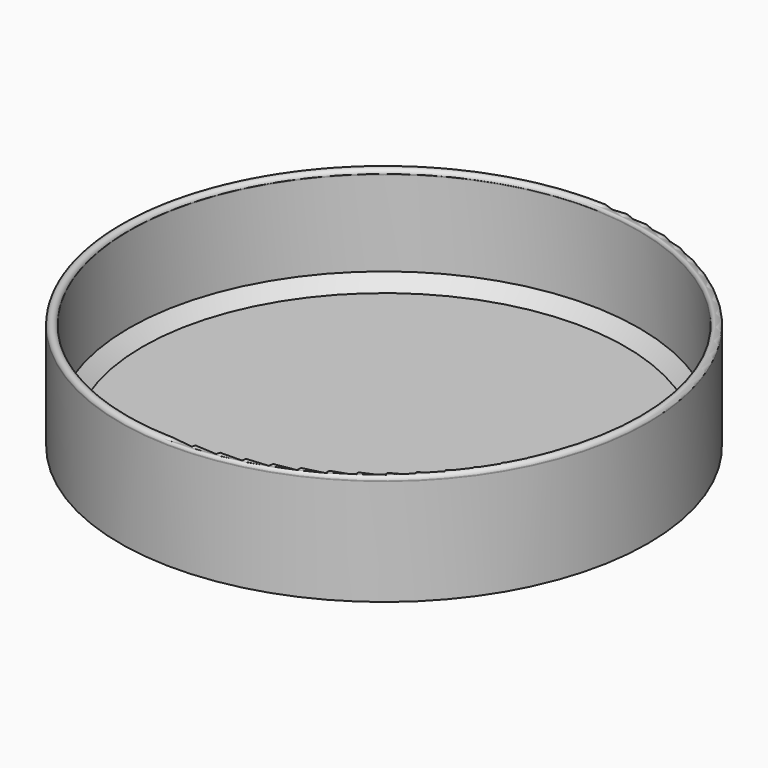
from build123d import *


with BuildPart() as f1:
    # F0 (on Front) → F1 (revolve)
    with BuildSketch(Plane.XZ):
        Polygon((40.7119989395, 1.5), (0, 1.5), (0, 0), (44.5, 0), (44.5, 1.5), (43, 1.5), align=None)
        with BuildLine():
            Line((43, 3.5270005465), (43, 1.5))
            Line((43, 1.5), (44.5, 1.5))
            Line((44.5, 1.5), (44.5, 17.8719462752))
            ThreePointArc((44.5, 17.8719462752), (43.75, 17.1832451395), (43, 17.8719462752))
            Line((43, 17.8719462752), (43, 3.5270005465))
        make_face()
        Polygon((43, 3.5270005465), (40.7119989395, 1.5), (43, 1.5), align=None)
        with BuildLine():
            ThreePointArc((44.5, 18), (43.75, 18.6887011357), (43, 18))
            Line((43, 18), (44.5, 18))
        make_face()
        with BuildLine():
            Line((43, 18), (43, 17.8719462752))
            ThreePointArc((43, 17.8719462752), (43.75, 17.1832451395), (44.5, 17.8719462752))
            Line((44.5, 17.8719462752), (44.5, 18))
            Line((44.5, 18), (43, 18))
        make_face()
        with BuildLine():
            Line((44.5, 18), (44.5, 17.8719462752))
            ThreePointArc((44.5, 17.8719462752), (44.5020456893, 17.9039306616), (44.5027279981, 17.9359731376))
            ThreePointArc((44.5027279981, 17.9359731376), (44.5020456893, 17.9680156136), (44.5, 18))
        make_face()
        with BuildLine():
            ThreePointArc((43, 18), (42.9972720019, 17.9359731376), (43, 17.8719462752))
            Line((43, 17.8719462752), (43, 18))
        make_face()
    revolve(axis=Axis((0, 0, -0.8306968957), (0, 0, -1)))


solid = f1.part
